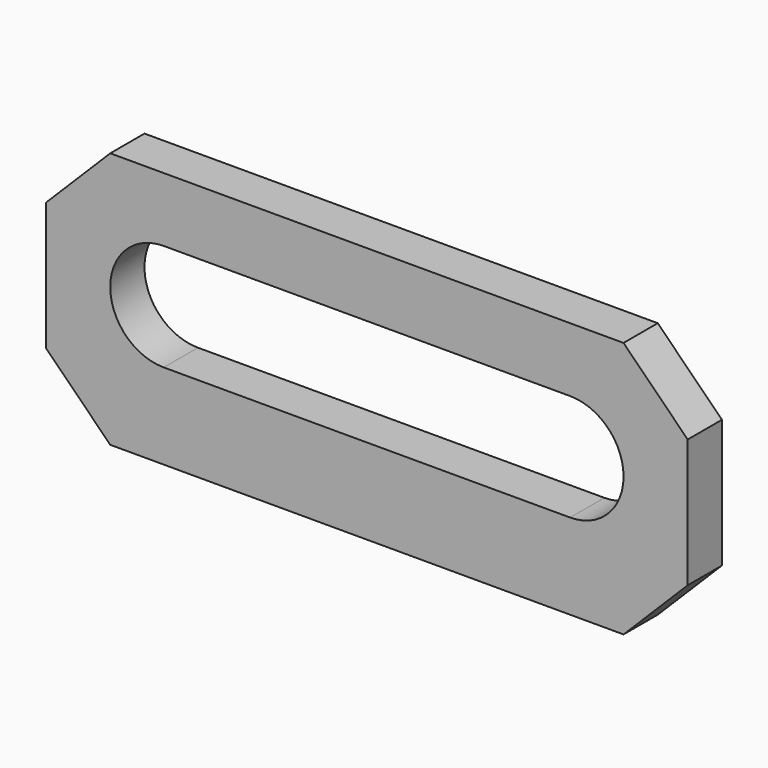
from build123d import *

# Parameters (mm, degrees)
F0_W     = 30
F0_H     = 12
F1_DEPTH = 2
F2_SIZE  = 3


with BuildPart() as f1:
    # F0 (on Front) → F1 (new body)
    with BuildSketch(Plane.XZ):
        with Locations((15, -6)):
            Rectangle(F0_W, F0_H)
        with BuildLine():
            Line((24.5, -8), (5.5, -8))
            ThreePointArc((5.5, -8), (3, -5.5), (5.5, -3))
            Line((5.5, -3), (24.5, -3))
            ThreePointArc((24.5, -3), (27, -5.5), (24.5, -8))
        make_face(mode=Mode.SUBTRACT)
    extrude(amount=F1_DEPTH)

    # F2
    f2_edges = [f1.edges().sort_by_distance(p)[0] for p in [
        (0, -1, 0),
        (30, -1, 0),
        (0, -1, -12),
        (30, -1, -12),
    ]]
    chamfer(f2_edges, length=F2_SIZE)


solid = f1.part
